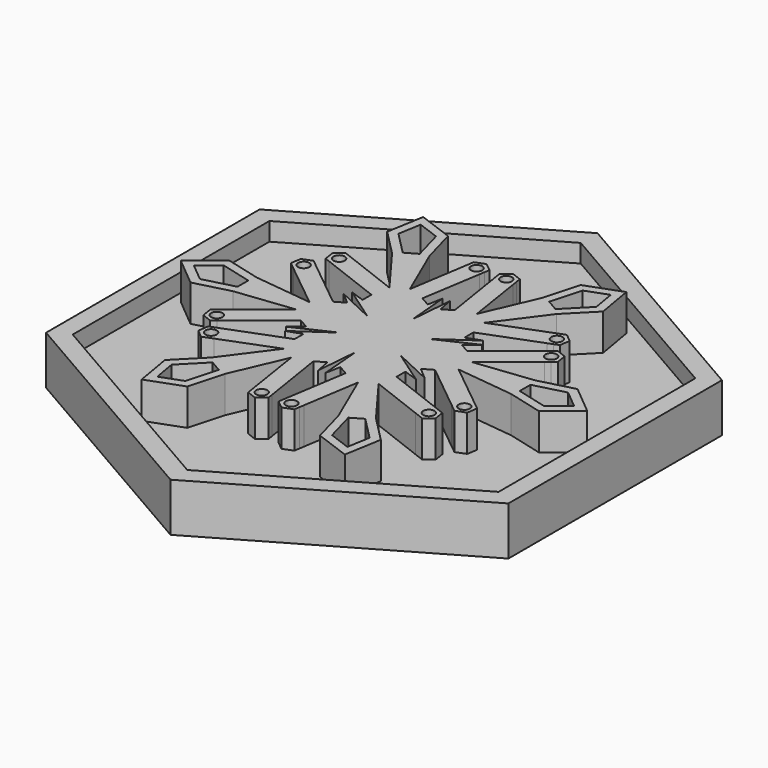
from build123d import *

# Parameters (mm, degrees)
F1_DEPTH = 8
F2_DEPTH = 3
F3_R     = 0.9288697712
F4_DEPTH = 6


with BuildPart() as f1:
    # F0 (on Top) → F1 (new body)
    with BuildSketch(Plane.XY):
        Polygon((38.1, 21.9970452561), (0, 43.9940905122), (-38.1, 21.9970452561), (-38.1, -21.9970452561), (0, -43.9940905122), (38.1, -21.9970452561), align=None)
        Polygon((0, 40.5299888971), (35.1, 20.2649944486), (35.1, -20.2649944486), (0, -40.5299888971), (-35.1, -20.2649944486), (-35.1, 20.2649944486), align=None, mode=Mode.SUBTRACT)
        Polygon((35.1, -20.2649944486), (35.1, 20.2649944486), (0, 40.5299888971), (-35.1, 20.2649944486), (-35.1, -20.2649944486), (0, -40.5299888971), align=None)
    extrude(amount=-F1_DEPTH)

    # F0 (on Top) → F2 (cut)
    with BuildSketch(Plane.XY):
        Polygon((35.1, -20.2649944486), (35.1, 20.2649944486), (0, 40.5299888971), (-35.1, 20.2649944486), (-35.1, -20.2649944486), (0, -40.5299888971), align=None)
    extrude(amount=-F2_DEPTH, mode=Mode.SUBTRACT)


with BuildPart() as f4:
    # F3 (on face) → F4 (new body)
    with BuildSketch(Plane.XY.offset(-3)):
        Polygon((-0.0101942137, 5.7802191629), (-0.0039576697, 5.7838198333), (0.0106035903, 5.7754128859), (0, 5.8999041092), align=None)
        Polygon((0, 5.8999041092), (0.0106035903, 5.7754128859), (4.9960423303, 2.8970684873), (4.9960423303, 2.8967439277), (5.1094668385, 2.9499520546), (10.8124357792, 6.9237300696), (8.40461209, 6.0739093962), (8.40461209, 7.9173080876), (17.6799456165, 11.4807819557), (18.4886418623, 11.7914735261), (19.2965420381, 12.1028080223), (19.5651950485, 13.8134666705), (18.2180477071, 14.9014563264), (17.4101475312, 14.5901218302), (16.6022473553, 14.278787334), (7.8341076151, 10.8998743817), (13.570394367, 18.6190735549), (17.7940451849, 22.899169329), (16.7431578065, 29), (10.9342397721, 26.8596798307), (9.33939351, 21.0618430386), (5.5225143051, 12.2344734015), (4.0646688889, 21.5173616366), (3.9303423837, 22.3726909608), (3.7960158785, 23.2280202849), (2.1802155268, 23.8506892772), (0.8330681854, 22.7626996214), (0.9673946905, 21.9073702972), (2.6542838884, 11.2372616226), (1.0578537924, 10.3155622769), (0.5899082396, 12.8257090964), align=None)
        Polygon((1.2929345974, 9.2965857046), (3.1542838884, 10.3712362189), (6.3791766052, 11.0490579907), (7.40461209, 7.9173080876), (7.40461209, 5.7680070591), (4.9536354074, 4.0601883146), (1.0394085209, 6.3200682612), align=None, mode=Mode.SUBTRACT)
        with Locations((17.9487577584, 13.1924505069)):
            Circle(F3_R, mode=Mode.SUBTRACT)
        with Locations((2.450618398, 22.1403054386)):
            Circle(F3_R, mode=Mode.SUBTRACT)
        Polygon((15.6646184069, 27.1319149619), (16.3136988658, 23.3637376542), (12.5881319134, 19.5883821485), (10.669970603, 20.6958330974), (12.076740903, 25.8099464746), align=None, mode=Mode.SUBTRACT)
        Polygon((-5.0007195277, 2.8989380295), (-0.0101942137, 5.7802191629), (0, 5.8999041092), (-0.5899082396, 12.8257090964), (-1.0578537924, 10.3155622769), (-2.6542838884, 11.2372616226), (-1.1026760207, 21.0516730193), (-0.9673946905, 21.9073702972), (-0.8330681854, 22.7626996214), (-2.1802155268, 23.8506892772), (-3.7960158785, 23.2280202849), (-3.9303423837, 22.3726909608), (-4.0646688889, 21.5173616366), (-5.5225143051, 12.2344734015), (-9.33939351, 21.0618430386), (-10.9342397721, 26.8596798307), (-16.7431578065, 29), (-17.7940451849, 22.899169329), (-13.570394367, 18.6190735549), (-7.8341076151, 10.8998743817), (-16.6022473553, 14.278787334), (-17.4101475312, 14.5901218302), (-18.2180477071, 14.9014563264), (-19.5651950485, 13.8134666705), (-19.2965420381, 12.1028080223), (-18.4886418623, 11.7914735261), (-8.40461209, 7.9173080876), (-8.40461209, 6.0739093962), (-10.8124357792, 6.9237300696), (-5.1094668385, 2.9499520546), align=None)
        with Locations((-17.9487577584, 13.1924505069)):
            Circle(F3_R, mode=Mode.SUBTRACT)
        Polygon((-7.40461209, 5.7680070591), (-7.40461209, 7.9173080876), (-6.3791766052, 11.0490579907), (-3.1542838884, 10.3712362189), (-1.2929345974, 9.2965857046), (-1.0394085209, 6.3200682613), (-4.9536354074, 4.0601883146), align=None, mode=Mode.SUBTRACT)
        Polygon((-15.6646184069, 27.1319149619), (-12.076740903, 25.8099464746), (-10.669970603, 20.6958330974), (-12.5881319134, 19.5883821485), (-16.3136988658, 23.3637376542), align=None, mode=Mode.SUBTRACT)
        with Locations((-2.450618398, 22.1403054386)):
            Circle(F3_R, mode=Mode.SUBTRACT)
        Polygon((-5.0039576697, 2.8970684873), (-5.0007195277, 2.8989380295), (-5.1094668385, 2.9499520546), (-5.0039576697, 2.8764342046), align=None)
        Polygon((5.1094668385, 2.9499520546), (4.9960423303, 2.8967439277), (4.9960423303, -2.8764342046), (-0.0039576697, -5.7631855505), (-5.0039576697, -2.8764342046), (-5.1094668385, -2.9499520546), (-10.8124357792, -6.9237300696), (-8.40461209, -6.0739093962), (-8.40461209, -7.9173080876), (-17.6799456165, -11.4807819557), (-18.4886418623, -11.7914735261), (-19.2965420381, -12.1028080223), (-19.5651950485, -13.8134666705), (-18.2180477071, -14.9014563264), (-17.4101475312, -14.5901218302), (-16.6022473553, -14.278787334), (-7.8341076151, -10.8998743817), (-13.570394367, -18.6190735549), (-17.7940451849, -22.899169329), (-16.7431578065, -29), (-10.9342397721, -26.8596798307), (-9.33939351, -21.0618430386), (-5.5225143051, -12.2344734015), (-4.0646688889, -21.5173616366), (-3.9303423837, -22.3726909608), (-3.7960158785, -23.2280202849), (-2.1802155268, -23.8506892772), (-0.8330681854, -22.7626996214), (-0.9673946905, -21.9073702972), (-2.6542838884, -11.2372616226), (-1.0578537924, -10.3155622769), (-0.5899082396, -12.8257090964), (0, -5.8999041092), (0.5899082396, -12.8257090964), (1.0578537924, -10.3155622769), (2.6542838884, -11.2372616226), (1.1026760207, -21.0516730193), (0.9673946905, -21.9073702972), (0.8330681854, -22.7626996214), (2.1802155268, -23.8506892772), (3.7960158785, -23.2280202849), (3.9303423837, -22.3726909608), (4.0646688889, -21.5173616366), (5.5225143051, -12.2344734015), (9.33939351, -21.0618430386), (10.9342397721, -26.8596798307), (16.7431578065, -29), (17.7940451849, -22.899169329), (13.570394367, -18.6190735549), (7.8341076151, -10.8998743817), (16.6022473553, -14.278787334), (17.4101475312, -14.5901218302), (18.2180477071, -14.9014563264), (19.5651950485, -13.8134666705), (19.2965420381, -12.1028080223), (18.4886418623, -11.7914735261), (8.40461209, -7.9173080876), (8.40461209, -6.0739093962), (10.8124357792, -6.9237300696), (5.1094668385, -2.9499520546), (11.4023440188, -5.9019790268), (9.4624658823, -4.2416528808), (11.0588959784, -3.3199535351), (18.7826216372, -9.5708910636), (19.4560365528, -10.1158967711), (20.1296102235, -10.6598915991), (21.7454105752, -10.0372226067), (22.0140635856, -8.3265639585), (21.3404899149, -7.7825691305), (20.6669162442, -7.2385743026), (13.3566219202, -1.3345990198), (22.9097878769, -2.4427694837), (28.7282849569, -3.9605105017), (33.486315613, 0), (28.7282849569, 3.9605105017), (22.9097878769, 2.4427694837), (13.3566219202, 1.3345990198), (20.6669162442, 7.2385743026), (21.3404899149, 7.7825691305), (22.0140635856, 8.3265639585), (21.7454105752, 10.0372226067), (20.1296102235, 10.6598915991), (19.4560365528, 10.1158967711), (11.0588959784, 3.3199535351), (9.4624658823, 4.2416528808), (11.4023440188, 5.9019790268), align=None)
        Polygon((-15.6646184069, -27.1319149619), (-16.3136988658, -23.3637376542), (-12.5881319134, -19.5883821485), (-10.669970603, -20.6958330974), (-12.076740903, -25.8099464746), align=None, mode=Mode.SUBTRACT)
        with Locations((-2.450618398, -22.1403054386)):
            Circle(F3_R, mode=Mode.SUBTRACT)
        with Locations((-17.9487577584, -13.1924505069)):
            Circle(F3_R, mode=Mode.SUBTRACT)
        Polygon((-6.3791766052, -11.0490579907), (-7.40461209, -7.9173080876), (-7.40461209, -5.7680070591), (-4.9536354074, -4.0601883146), (-1.0394085209, -6.3200682612), (-1.2929345974, -9.2965857046), (-3.1542838884, -10.3712362189), align=None, mode=Mode.SUBTRACT)
        with Locations((2.450618398, -22.1403054386)):
            Circle(F3_R, mode=Mode.SUBTRACT)
        Polygon((15.6646184069, -27.1319149619), (12.076740903, -25.8099464746), (10.669970603, -20.6958330974), (12.5881319134, -19.5883821485), (16.3136988658, -23.3637376542), align=None, mode=Mode.SUBTRACT)
        Polygon((7.40461209, -5.7680070591), (7.40461209, -7.9173080876), (6.3791766052, -11.0490579907), (3.1542838884, -10.3712362189), (1.2929345974, -9.2965857046), (1.0394085209, -6.3200682613), (4.9536354074, -4.0601883146), align=None, mode=Mode.SUBTRACT)
        with Locations((17.9487577584, -13.1924505069)):
            Circle(F3_R, mode=Mode.SUBTRACT)
        with Locations((20.3993761563, -8.9478549317)):
            Circle(F3_R, mode=Mode.SUBTRACT)
        Polygon((8.6975466874, 3.5285786455), (10.5588959784, 2.4539281313), (12.7583532105, 0), (10.5588959784, -2.4539281313), (8.6975466874, -3.5285786455), (5.9930439283, -2.2598799466), (5.9930439283, 2.2598799466), align=None, mode=Mode.SUBTRACT)
        Polygon((31.3292368137, 0), (28.3904397689, -2.4462088204), (23.2581025164, -1.1074509489), (23.2581025164, 1.1074509489), (28.3904397689, 2.4462088204), align=None, mode=Mode.SUBTRACT)
        with Locations((20.3993761563, 8.9478549317)):
            Circle(F3_R, mode=Mode.SUBTRACT)
        Polygon((-5.0039576697, 2.8764342046), (-5.1094668385, 2.9499520546), (-11.4023440188, 5.9019790268), (-9.4624658823, 4.2416528808), (-11.0588959784, 3.3199535351), (-18.7826216372, 9.5708910636), (-19.4560365528, 10.1158967711), (-20.1296102235, 10.6598915991), (-21.7454105752, 10.0372226067), (-22.0140635856, 8.3265639585), (-21.3404899149, 7.7825691305), (-20.6669162442, 7.2385743026), (-13.3566219202, 1.3345990198), (-22.9097878769, 2.4427694837), (-28.7282849569, 3.9605105017), (-33.486315613, 0), (-28.7282849569, -3.9605105017), (-22.9097878769, -2.4427694837), (-13.3566219202, -1.3345990198), (-20.6669162442, -7.2385743026), (-21.3404899149, -7.7825691305), (-22.0140635856, -8.3265639585), (-21.7454105752, -10.0372226067), (-20.1296102235, -10.6598915991), (-19.4560365528, -10.1158967711), (-11.0588959784, -3.3199535351), (-9.4624658823, -4.2416528808), (-11.4023440188, -5.9019790268), (-5.1094668385, -2.9499520546), (-5.0039576697, -2.8764342046), align=None)
        with Locations((-20.3993761563, -8.9478549317)):
            Circle(F3_R, mode=Mode.SUBTRACT)
        Polygon((-31.3292368137, 0), (-28.3904397689, 2.4462088204), (-23.2581025164, 1.1074509489), (-23.2581025164, -1.1074509489), (-28.3904397689, -2.4462088204), align=None, mode=Mode.SUBTRACT)
        Polygon((-8.6975466874, -3.5285786455), (-10.5588959784, -2.4539281313), (-12.7583532105, 0), (-10.5588959784, 2.4539281313), (-8.6975466874, 3.5285786455), (-5.9930439283, 2.2598799466), (-5.9930439283, -2.2598799466), align=None, mode=Mode.SUBTRACT)
        with Locations((-20.3993761563, 8.9478549317)):
            Circle(F3_R, mode=Mode.SUBTRACT)
        Polygon((-0.9673946905, 21.9073702972), (-1.1026760207, 21.0516730193), (-1.1017211957, 21.0520409731), align=None)
        Polygon((-19.4560365528, 10.1158967711), (-18.7826216372, 9.5708910636), (-18.7824628821, 9.5719019432), align=None)
        Polygon((18.4886418623, 11.7914735261), (17.6799456165, 11.4807819557), (17.6807416864, 11.4801390299), align=None)
        Polygon((-18.4886418623, -11.7914735261), (-17.6799456165, -11.4807819557), (-17.6807416864, -11.4801390299), align=None)
        Polygon((18.7824628821, -9.5719019432), (19.4560365528, -10.1158967711), (18.7826216372, -9.5708910636), align=None)
        Polygon((0.9673946905, -21.9073702972), (1.1026760207, -21.0516730193), (1.1017211957, -21.0520409731), align=None)
        Polygon((-12.7583532105, 0), (-10.5588959784, -2.4539281313), (-8.6975466874, -3.5285786455), (-5.9930439283, -2.2598799466), (-5.9930439283, 2.2598799466), (-8.6975466874, 3.5285786455), (-10.5588959784, 2.4539281313), align=None)
        Polygon((-6.3791766052, 11.0490579907), (-7.40461209, 7.9173080876), (-7.40461209, 5.7680070591), (-4.9536354074, 4.0601883146), (-1.0394085209, 6.3200682613), (-1.2929345974, 9.2965857046), (-3.1542838884, 10.3712362189), align=None)
        Polygon((6.3791766052, 11.0490579907), (3.1542838884, 10.3712362189), (1.2929345974, 9.2965857046), (1.0394085209, 6.3200682612), (4.9536354074, 4.0601883146), (7.40461209, 5.7680070591), (7.40461209, 7.9173080876), align=None)
        Polygon((12.7583532105, 0), (10.5588959784, 2.4539281313), (8.6975466874, 3.5285786455), (5.9930439283, 2.2598799466), (5.9930439283, -2.2598799466), (8.6975466874, -3.5285786455), (10.5588959784, -2.4539281313), align=None)
        Polygon((6.3791766052, -11.0490579907), (7.40461209, -7.9173080876), (7.40461209, -5.7680070591), (4.9536354074, -4.0601883146), (1.0394085209, -6.3200682613), (1.2929345974, -9.2965857046), (3.1542838884, -10.3712362189), align=None)
        Polygon((-7.40461209, -5.7680070591), (-7.40461209, -7.9173080876), (-6.3791766052, -11.0490579907), (-3.1542838884, -10.3712362189), (-1.2929345974, -9.2965857046), (-1.0394085209, -6.3200682612), (-4.9536354074, -4.0601883146), align=None)
        Polygon((0.0106035903, 5.7754128859), (-0.0039576697, 5.7838198333), (-0.0101942137, 5.7802191629), (-5.0007195277, 2.8989380295), (-5.0039576697, 2.8970684873), (-5.0039576697, 2.8764342046), (-5.0039576697, -2.8764342046), (-0.0039576697, -5.7631855505), (4.9960423303, -2.8764342046), (4.9960423303, 2.8967439277), (4.9960423303, 2.8970684873), align=None)
    extrude(amount=F4_DEPTH)


solid = Compound([f1.part, f4.part])
